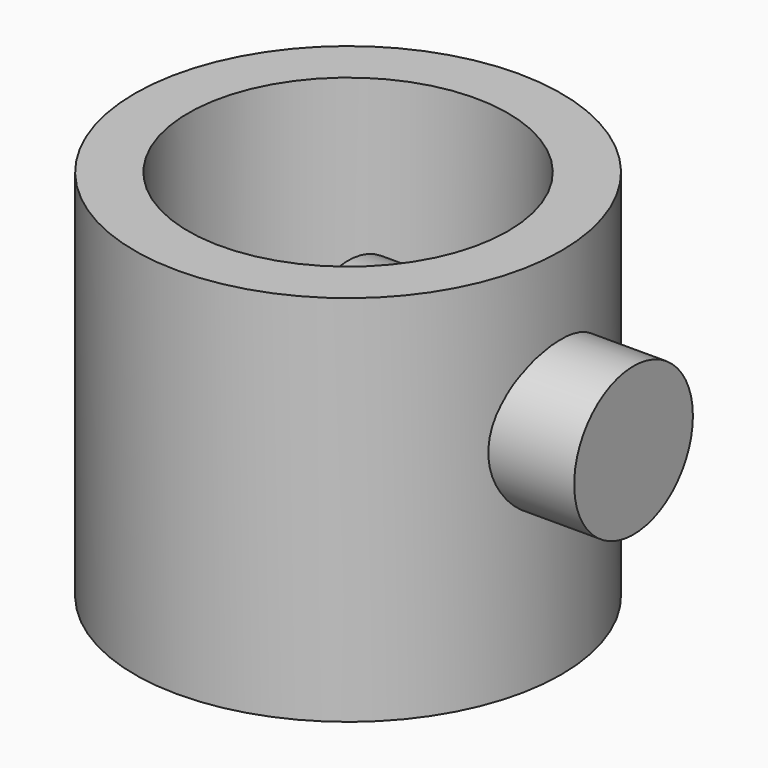
from build123d import *

# Parameters (mm, degrees)
F0_R     = 40
F0_R_2   = 30
F1_DEPTH = 70
F2_R     = 13.920833
F3_DEPTH = 53.5646


with BuildPart() as f1:
    # F0 (on Top) → F1 (new body)
    with BuildSketch(Plane.XY):
        Circle(F0_R)
        Circle(F0_R_2, mode=Mode.SUBTRACT)
    extrude(amount=F1_DEPTH)


with BuildPart() as f3:
    # F2 (on Right) → F3 (new body)
    with BuildSketch(Plane.YZ):
        with Locations((0, 41.472025)):
            Circle(F2_R)
    extrude(amount=F3_DEPTH)


solid = Compound([f1.part, f3.part])
